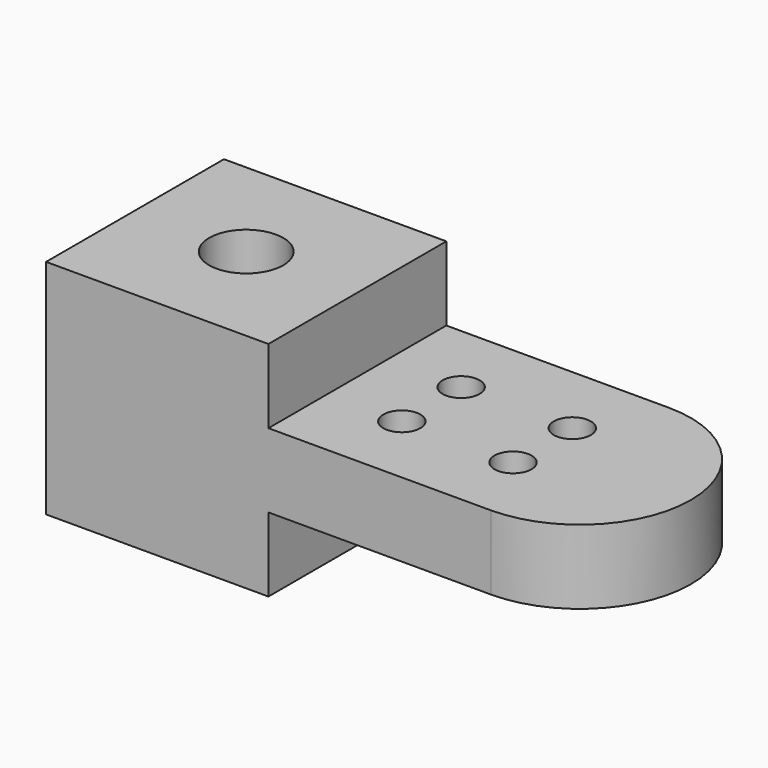
from build123d import *

# Parameters (mm, degrees)
F0_W     = 38.1
F0_H     = 38.1
F1_DEPTH = 12.7
F2_R     = 3.175
F3_DEPTH = 12.7
F4_DEPTH = 12.7
F5_W     = 38.1
F5_H     = 38.1
F6_DEPTH = 12.7
F7_R     = 6.35
F8_DEPTH = 50.8


with BuildPart() as f1:
    # F0 (on Top) → F1 (new body)
    with BuildSketch(Plane.XY):
        with Locations((19.05, 19.05)):
            Rectangle(F0_W, F0_H)
    extrude(amount=F1_DEPTH)

    # F2 (on face) → F3 (join)
    with BuildSketch(Plane.XY.offset(12.7)):
        with BuildLine():
            Line((0, 38.1), (0, 0))
            Line((0, 0), (76.2, 0))
            ThreePointArc((76.2, 0), (95.25, 19.05), (76.2, 38.1))
            Line((76.2, 38.1), (0, 38.1))
        make_face()
        with Locations((50.8, 12.7)):
            Circle(F2_R, mode=Mode.SUBTRACT)
        with Locations((69.85, 12.7)):
            Circle(F2_R, mode=Mode.SUBTRACT)
        with Locations((50.8, 25.4)):
            Circle(F2_R, mode=Mode.SUBTRACT)
        with Locations((69.85, 25.4)):
            Circle(F2_R, mode=Mode.SUBTRACT)
    extrude(amount=F3_DEPTH)

    # F2 (on face) → F4 (join)
    with BuildSketch(Plane.XY.offset(12.7)):
        with BuildLine():
            Line((0, 38.1), (0, 0))
            Line((0, 0), (76.2, 0))
            ThreePointArc((76.2, 0), (95.25, 19.05), (76.2, 38.1))
            Line((76.2, 38.1), (0, 38.1))
        make_face()
        with Locations((50.8, 12.7)):
            Circle(F2_R, mode=Mode.SUBTRACT)
        with Locations((69.85, 12.7)):
            Circle(F2_R, mode=Mode.SUBTRACT)
        with Locations((50.8, 25.4)):
            Circle(F2_R, mode=Mode.SUBTRACT)
        with Locations((69.85, 25.4)):
            Circle(F2_R, mode=Mode.SUBTRACT)
    extrude(amount=F4_DEPTH)

    # F5 (on face) → F6 (join)
    with BuildSketch(Plane.XY.offset(25.4)):
        with Locations((19.05, 19.05)):
            Rectangle(F5_W, F5_H)
    extrude(amount=F6_DEPTH)

    # F7 (on face) → F8 (cut)
    with BuildSketch(Plane.XY.offset(38.1)):
        with Locations((19.05, 19.05)):
            Circle(F7_R)
    extrude(amount=-F8_DEPTH, mode=Mode.SUBTRACT)


solid = f1.part
